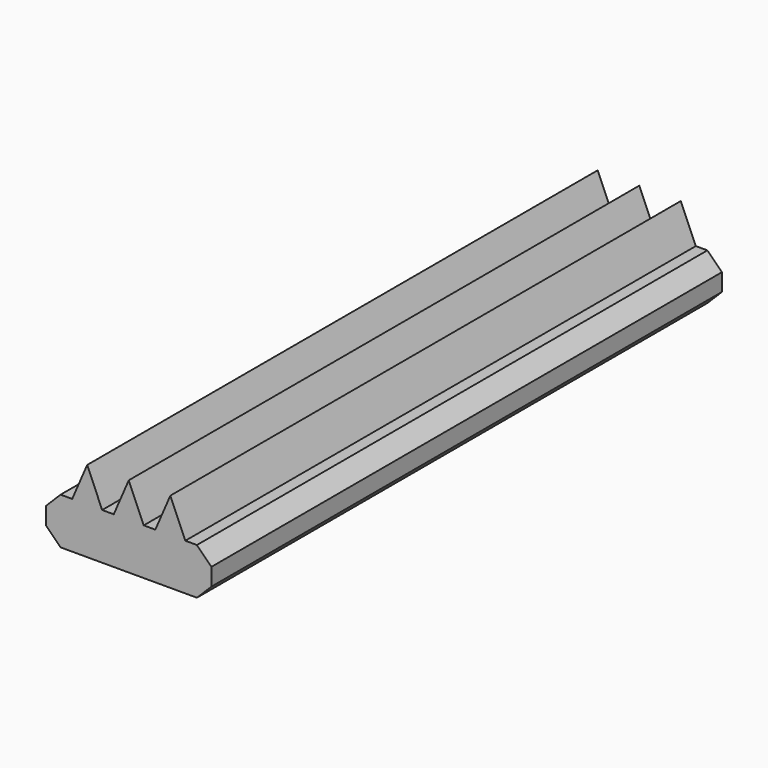
from build123d import *

# Parameters (mm, degrees)
SKETCH014_W     = 5.7
SKETCH014_H     = 1.6
PAD004_DEPTH    = 22
PAD005_DEPTH    = 22
CHAMFER002_SIZE = 0.5


with BuildPart() as part:
    # Sketch014 → Pad004 (new body)
    with BuildSketch(Plane.XZ):
        with Locations((0, 0.8)):
            Rectangle(SKETCH014_W, SKETCH014_H)
    extrude(amount=PAD004_DEPTH)

    # Sketch015 → Pad005 (join)
    with BuildSketch(Plane.XZ):
        Polygon((0.516667, 1.6), (0, 2.8), (-0.516667, 1.6), align=None)
        Polygon((-0.916667, 1.6), (-1.433333, 2.8), (-1.95, 1.6), align=None)
        Polygon((0.916667, 1.6), (1.433333, 2.8), (1.95, 1.6), align=None)
    extrude(amount=PAD005_DEPTH)

    # Chamfer002
    chamfer002_edges = [part.edges().sort_by_distance(p)[0] for p in [
        (-2.85, -11, 1.6),
        (-2.85, -11, 0),
        (2.85, -11, 0),
        (2.85, -11, 1.6),
    ]]
    chamfer(chamfer002_edges, length=CHAMFER002_SIZE)


solid = part.part
